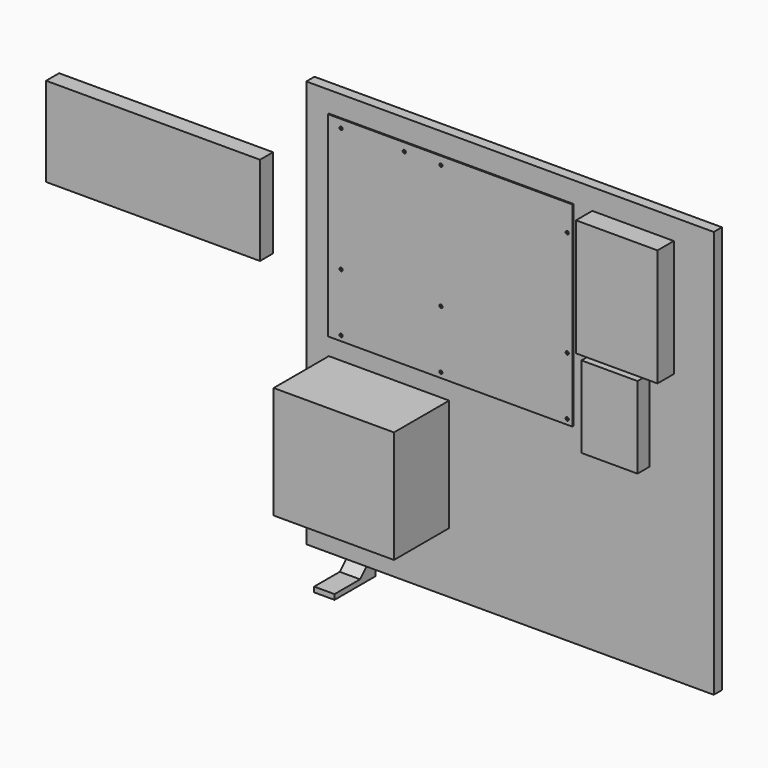
from build123d import *

# Parameters (mm, degrees)
F0_W      = 304.8
F0_H      = 243.84
F0_R      = 1.98
F1_DEPTH  = 1.5748
F2_W      = 150
F2_H      = 140
F3_DEPTH  = 86
F4_W      = 266.7
F4_H      = 111.1504
F5_DEPTH  = 20.32
F6_W      = 101.6
F6_H      = 146.05
F7_DEPTH  = 25.4
F8_W      = 69.85
F8_H      = 101.6
F9_DEPTH  = 19.05
F10_W     = 508
F10_H     = 508
F11_DEPTH = 12.7
F13_DEPTH = 25.4


with BuildPart() as f1:
    # F0 (on Front) → F1 (new body)
    with BuildSketch(Plane.XZ):
        with Locations((152.4, -121.92)):
            Rectangle(F0_W, F0_H)
        with Locations((16.51, -237.49)):
            Circle(F0_R, mode=Mode.SUBTRACT)
        with Locations((140.97, -237.49)):
            Circle(F0_R, mode=Mode.SUBTRACT)
        with Locations((16.51, -165.1)):
            Circle(F0_R, mode=Mode.SUBTRACT)
        with Locations((140.97, -165.1)):
            Circle(F0_R, mode=Mode.SUBTRACT)
        with Locations((298.45, -237.49)):
            Circle(F0_R, mode=Mode.SUBTRACT)
        with Locations((298.45, -165.1)):
            Circle(F0_R, mode=Mode.SUBTRACT)
        with Locations((16.51, -10.16)):
            Circle(F0_R, mode=Mode.SUBTRACT)
        with Locations((95.25, -10.16)):
            Circle(F0_R, mode=Mode.SUBTRACT)
        with Locations((140.97, -10.16)):
            Circle(F0_R, mode=Mode.SUBTRACT)
        with Locations((298.45, -33.02)):
            Circle(F0_R, mode=Mode.SUBTRACT)
    extrude(amount=F1_DEPTH)


with BuildPart() as f3:
    # F2 (on Front) → F3 (new body)
    with BuildSketch(Plane.XZ):
        with Locations((75, -336.217142)):
            Rectangle(F2_W, F2_H)
    extrude(amount=F3_DEPTH)


with BuildPart() as f5:
    # F4 (on Front) → F5 (new body)
    with BuildSketch(Plane.XZ):
        with Locations((-202.921405, -120.621153)):
            Rectangle(F4_W, F4_H)
    extrude(amount=F5_DEPTH)


with BuildPart() as f7:
    # F6 (on Front) → F7 (new body)
    with BuildSketch(Plane.XZ):
        with Locations((379.260089, -73.025)):
            Rectangle(F6_W, F6_H)
    extrude(amount=F7_DEPTH)


with BuildPart() as f9:
    # F8 (on Front) → F9 (new body)
    with BuildSketch(Plane.XZ):
        with Locations((365.155711, -206.566785)):
            Rectangle(F8_W, F8_H)
    extrude(amount=F9_DEPTH)


with BuildPart() as f11:
    # F10 (on Front) → F11 (new body)
    with BuildSketch(Plane.XZ):
        with Locations((225.910594, -227.881701)):
            Rectangle(F10_W, F10_H)
    extrude(amount=-F11_DEPTH)


with BuildPart() as f13:
    # F12 (on Right) → F13 (new body)
    with BuildSketch(Plane.YZ):
        Polygon((40.616777, -470.069736), (34.266777, -470.069736), (34.266777, -492.64796), (17.037274, -509.877463), (-22.883223, -509.877463), (-22.883223, -516.227463), (40.616777, -516.227463), align=None)
    extrude(amount=F13_DEPTH)


solid = Compound([f1.part, f3.part, f5.part, f7.part, f9.part, f11.part, f13.part])
